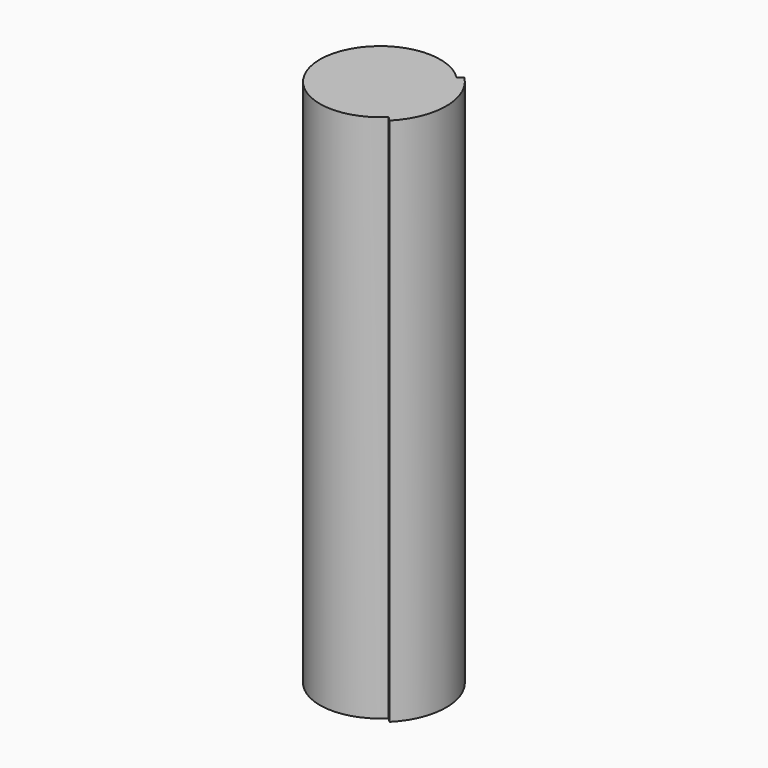
from build123d import *

# Parameters (mm, degrees)
F1_DEPTH = 139.7
F2_ANGLE = 45


with BuildPart() as f1:
    # F0 (on Top) → F1 (new body)
    with BuildSketch(Plane.XY):
        with BuildLine():
            Line((15.875, 0), (17.475, 0))
            ThreePointArc((17.475, 0), (12.3566910012, 12.3566910012), (0, 17.475))
            Line((0, 17.475), (0, 15.875))
            ThreePointArc((0, 15.875), (11.2253201513, 11.2253201513), (15.875, 0))
        make_face()
        with BuildLine():
            ThreePointArc((0, 15.875), (-11.2253201513, -11.2253201513), (15.875, 0))
            Line((15.875, 0), (0, 0))
            Line((0, 0), (0, 15.875))
        make_face()
        with BuildLine():
            Line((0, 0), (15.875, 0))
            ThreePointArc((15.875, 0), (11.2253201513, 11.2253201513), (0, 15.875))
            Line((0, 15.875), (0, 0))
        make_face()
    extrude(amount=F1_DEPTH)


with BuildPart() as f1_1:
    # F2: moved
    add(f1.part.rotate(Axis((0, 15.875, 69.85), (0, 0, -1)), F2_ANGLE))


solid = f1_1.part
